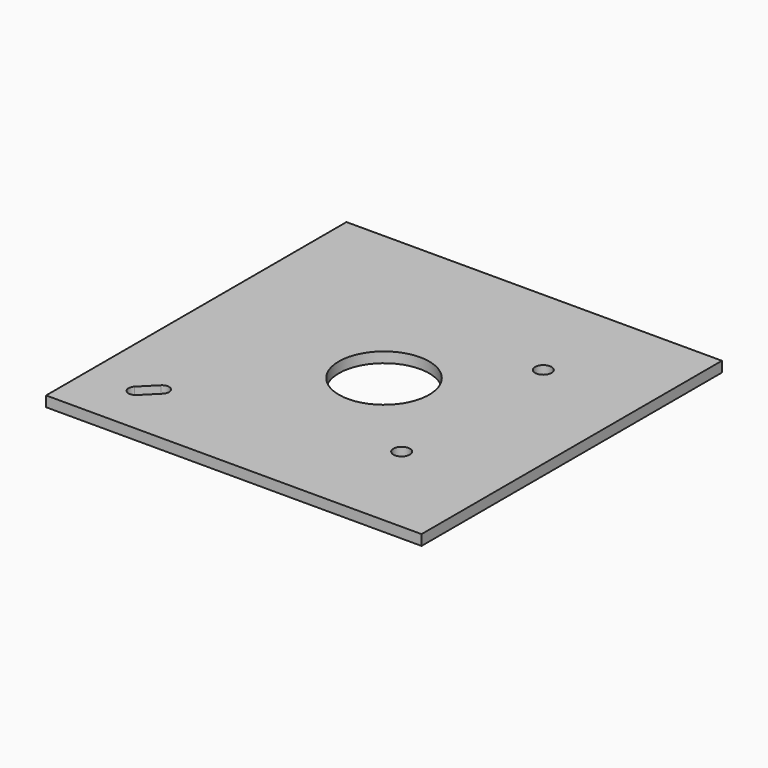
from build123d import *

# Parameters (mm, degrees)
F0_W     = 914.4
F0_H     = 914.4
F1_DEPTH = 25.4
F3_D     = 220
F5_D     = 40
F7_DEPTH = 25.401


with BuildPart() as f1:
    # F0 (on Top) → F1 (new body)
    with BuildSketch(Plane.XY):
        Rectangle(F0_W, F0_H)
    extrude(amount=-F1_DEPTH)

    # F3 (through all)
    with Locations(Plane.XY):
        with Locations((0, 0)):
            Hole(F3_D / 2)

    # F5 (through all)
    with Locations(Plane.XY):
        with Locations((215.5261469057, 215.5261469057), (215.5261469057, -215.5261469057)):
            Hole(F5_D / 2)

    # F6 (on face) → F7 (cut, through all)
    with BuildSketch(Plane.XY):
        with BuildLine():
            ThreePointArc((-288.1460133335, -312.894750675), (-300.5203820043, -318.0203820043), (-312.894750675, -312.894750675))
            Line((-312.894750675, -312.894750675), (-323.5013523928, -323.5013523928))
            ThreePointArc((-323.5013523928, -323.5013523928), (-319.7078292447, -329.1787609972), (-318.3757210636, -335.8757210636))
            ThreePointArc((-318.3757210636, -335.8757210636), (-319.7078292447, -342.57268113), (-323.5013523928, -348.2500897344))
            Line((-323.5013523928, -348.2500897344), (-288.1460133335, -312.894750675))
        make_face()
        with BuildLine():
            ThreePointArc((-318.3757210636, -335.8757210636), (-319.7078292447, -329.1787609972), (-323.5013523928, -323.5013523928))
            ThreePointArc((-323.5013523928, -323.5013523928), (-335.8757210636, -318.3757210636), (-348.2500897344, -323.5013523928))
            ThreePointArc((-348.2500897344, -323.5013523928), (-348.2500897344, -348.2500897344), (-323.5013523928, -348.2500897344))
            ThreePointArc((-323.5013523928, -348.2500897344), (-319.7078292447, -342.57268113), (-318.3757210636, -335.8757210636))
        make_face()
        with BuildLine():
            Line((-323.5013523928, -323.5013523928), (-312.894750675, -312.894750675))
            ThreePointArc((-312.894750675, -312.894750675), (-318.0203820043, -300.5203820043), (-312.894750675, -288.1460133335))
            Line((-312.894750675, -288.1460133335), (-348.2500897344, -323.5013523928))
            ThreePointArc((-348.2500897344, -323.5013523928), (-335.8757210636, -318.3757210636), (-323.5013523928, -323.5013523928))
        make_face()
        with BuildLine():
            ThreePointArc((-283.0203820043, -300.5203820043), (-284.3524901853, -293.8234219379), (-288.1460133335, -288.1460133335))
            Line((-288.1460133335, -288.1460133335), (-312.894750675, -312.894750675))
            ThreePointArc((-312.894750675, -312.894750675), (-300.5203820043, -318.0203820043), (-288.1460133335, -312.894750675))
            ThreePointArc((-288.1460133335, -312.894750675), (-284.3524901853, -307.2173420707), (-283.0203820043, -300.5203820043))
        make_face()
        with BuildLine():
            Line((-312.894750675, -312.894750675), (-288.1460133335, -288.1460133335))
            ThreePointArc((-288.1460133335, -288.1460133335), (-300.5203820043, -283.0203820043), (-312.894750675, -288.1460133335))
            ThreePointArc((-312.894750675, -288.1460133335), (-318.0203820043, -300.5203820043), (-312.894750675, -312.894750675))
        make_face()
    extrude(amount=-F7_DEPTH, mode=Mode.SUBTRACT)


solid = f1.part
